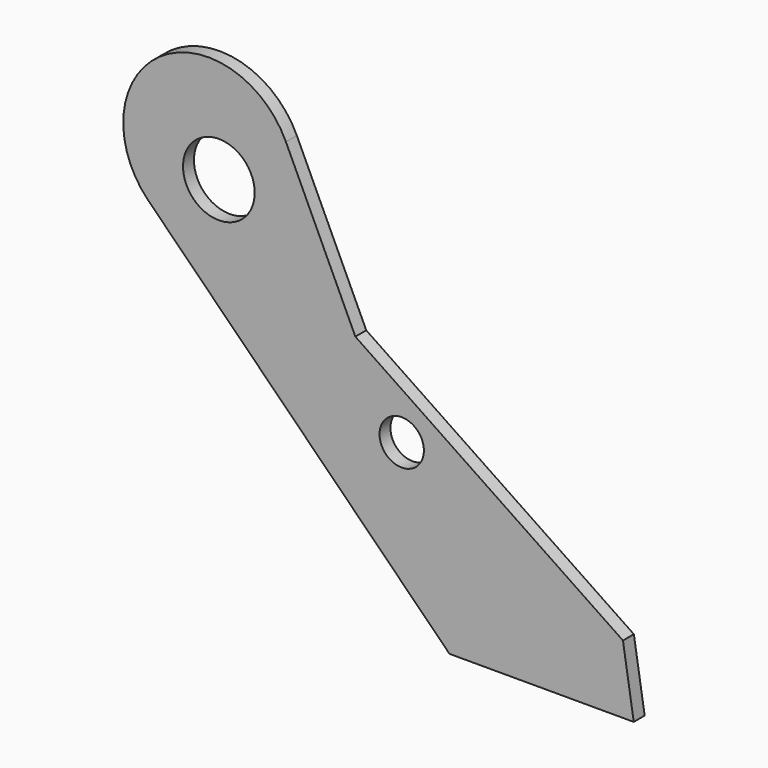
from build123d import *

# Parameters (mm, degrees)
F0_R     = 20.6375
F0_R_2   = 33.3375
F1_DEPTH = 12.7


with BuildPart() as f1:
    # F0 (on Front) → F1 (new body)
    with BuildSketch(Plane.XZ):
        with BuildLine():
            Line((127, -87.2998), (62.387785, 51.261542))
            ThreePointArc((62.387785, 51.261542), (-55.078025, 82.736411), (-65.676996, -38.410384))
            Line((-65.676996, -38.410384), (214.566733, -318.654112))
            Line((214.566733, -318.654112), (386.016733, -318.654112))
            Line((386.016733, -318.654112), (375.971888, -255.233459))
            Line((375.971888, -255.233459), (127, -87.2998))
        make_face()
        with Locations((170.116733, -159.909192)):
            Circle(F0_R, mode=Mode.SUBTRACT)
        Circle(F0_R_2, mode=Mode.SUBTRACT)
    extrude(amount=F1_DEPTH)


solid = f1.part
